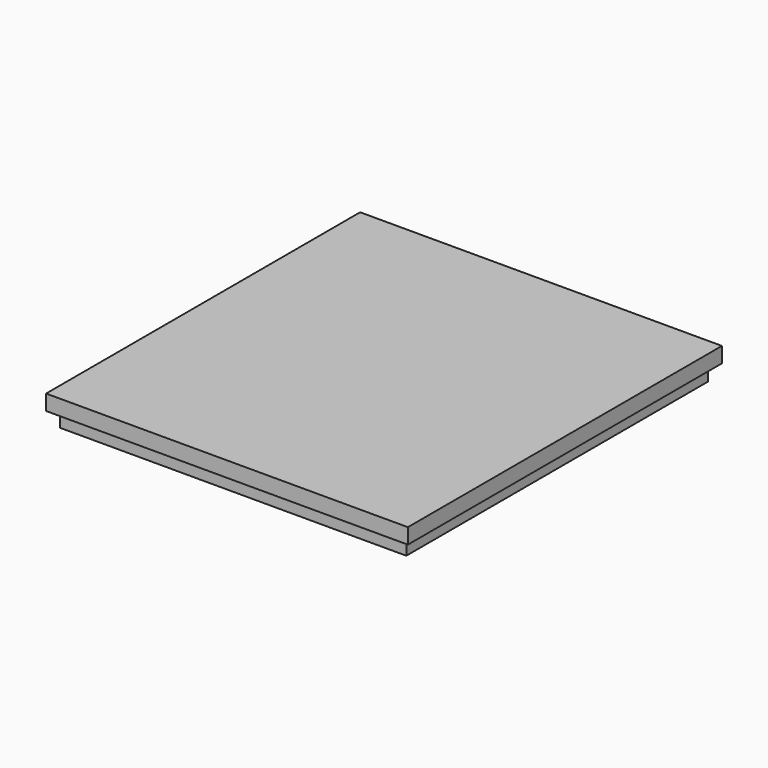
from build123d import *

# Parameters (mm, degrees)
F0_W     = 285.75
F0_H     = 311.15
F1_DEPTH = 25.4
F3_W     = 285.75
F3_H     = 12.7
F4_DEPTH = 6.35
F2_W     = 285.75
F2_H     = 12.7
F5_DEPTH = 6.35
F8_DEPTH = 6.35
F9_DEPTH = 6.35


with BuildPart() as f1:
    # F0 (on Top) → F1 (new body)
    with BuildSketch(Plane.XY):
        Rectangle(F0_W, F0_H)
    extrude(amount=-F1_DEPTH)

    # F3 (on face) → F4 (join)
    with BuildSketch(Plane(origin=(0, 155.575, 0), x_dir=(-1, 0, 0), z_dir=(0, 1, 0))):
        with Locations((0, -6.35)):
            Rectangle(F3_W, F3_H)
    extrude(amount=F4_DEPTH)

    # F2 (on face) → F5 (join)
    with BuildSketch(Plane.XZ.offset(155.575)):
        with Locations((0, -6.35)):
            Rectangle(F2_W, F2_H)
    extrude(amount=F5_DEPTH)

    # F7 (on face) → F8 (join)
    with BuildSketch(Plane(origin=(-142.875, 0, 0), x_dir=(0, -1, 0), z_dir=(-1, 0, 0))):
        Polygon((161.925, 0), (-161.925, 0), (-161.925, -12.7), (-155.575, -12.7), (155.575, -12.7), (161.925, -12.7), align=None)
    extrude(amount=F8_DEPTH)

    # F6 (on face) → F9 (join)
    with BuildSketch(Plane.YZ.offset(142.875)):
        Polygon((161.925, 0), (-161.925, 0), (-161.925, -12.7), (-155.575, -12.7), (155.575, -12.7), (161.925, -12.7), align=None)
    extrude(amount=F9_DEPTH)


solid = f1.part
